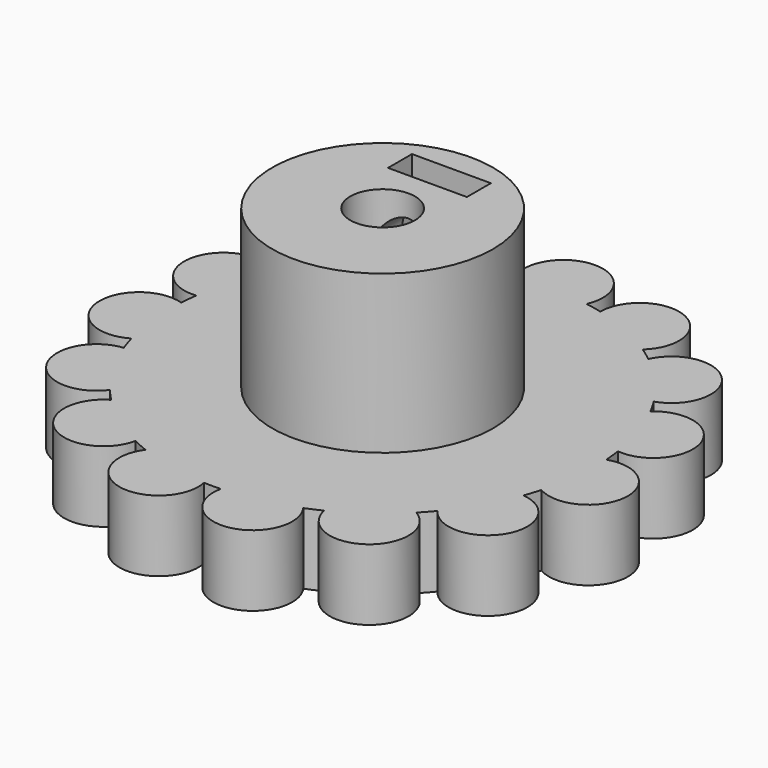
from build123d import *

# Parameters (mm, degrees)
F1_DEPTH      = 4.5
F2_R          = 7
F3_DEPTH      = 10
F4_R          = 2.05
F5_DEPTH      = 25
F6_W          = 5
F6_H          = 1.9
F7_DEPTH      = 6
F8_R          = 1.6
F9_DEPTH      = 2.2693995383
F9_DEPTH_BACK = 25


with BuildPart() as f1:
    # F0 (on Top) → F1 (new body)
    with BuildSketch(Plane.XY):
        with BuildLine():
            ThreePointArc((3.3244697782, 13.0842615647), (2.806807826, 13.2049926099), (2.284794361, 13.3052513966))
            ThreePointArc((2.284794361, 13.3052513966), (0, 16.82), (-2.284794361, 13.3052513966))
            ThreePointArc((-2.284794361, 13.3052513966), (-2.806807826, 13.2049926099), (-3.3244697782, 13.0842615647))
            ThreePointArc((-3.3244697782, 13.0842615647), (-6.8413103365, 15.3658345975), (-7.4989967985, 11.2256423877))
            ThreePointArc((-7.4989967985, 11.2256423877), (-7.9351009059, 10.9217294241), (-8.3589028909, 10.6008840414))
            ThreePointArc((-8.3589028909, 10.6008840414), (-12.4996959645, 11.254776799), (-11.4165545633, 7.2050178281))
            ThreePointArc((-11.4165545633, 7.2050178281), (-11.6913429511, 6.75), (-11.9480057555, 6.2845173614))
            ThreePointArc((-11.9480057555, 6.2845173614), (-15.9967706041, 5.1976658454), (-13.3600863279, 1.9385802306))
            ThreePointArc((-13.3600863279, 1.9385802306), (-13.4260455875, 1.4111342541), (-13.4711898808, 0.8815005365))
            ThreePointArc((-13.4711898808, 0.8815005365), (-16.7278582801, -1.7581687522), (-12.9935377939, -3.6630555003))
            ThreePointArc((-12.9935377939, -3.6630555003), (-12.83926297, -4.1717294241), (-12.6650828937, -4.6739357393))
            ThreePointArc((-12.6650828937, -4.6739357393), (-14.5665472917, -8.41), (-10.3802885327, -8.6313156574))
            ThreePointArc((-10.3802885327, -8.6313156574), (-10.0324551439, -9.0332631858), (-9.6690680157, -9.4212060644))
            ThreePointArc((-9.6690680157, -9.4212060644), (-9.8865479436, -13.6076658454), (-5.9721930823, -12.1071429242))
            ThreePointArc((-5.9721930823, -12.1071429242), (-5.4909446815, -12.3328636782), (-5.001183437, -12.539464272))
            ThreePointArc((-5.001183437, -12.539464272), (-3.4970746396, -16.4524426443), (-0.5314511923, -13.4895351896))
            ThreePointArc((-0.5314511923, -13.4895351896), (0, -13.5), (0.5314511923, -13.4895351896))
            ThreePointArc((0.5314511923, -13.4895351896), (3.4970746396, -16.4524426443), (5.001183437, -12.539464272))
            ThreePointArc((5.001183437, -12.539464272), (5.4909446815, -12.3328636782), (5.9721930823, -12.1071429242))
            ThreePointArc((5.9721930823, -12.1071429242), (9.8865479436, -13.6076658454), (9.6690680157, -9.4212060644))
            ThreePointArc((9.6690680157, -9.4212060644), (10.0324551439, -9.0332631858), (10.3802885327, -8.6313156574))
            ThreePointArc((10.3802885327, -8.6313156574), (14.5665472917, -8.41), (12.6650828937, -4.6739357393))
            ThreePointArc((12.6650828937, -4.6739357393), (12.83926297, -4.1717294241), (12.9935377939, -3.6630555003))
            ThreePointArc((12.9935377939, -3.6630555003), (16.7278582801, -1.7581687522), (13.4711898808, 0.8815005365))
            ThreePointArc((13.4711898808, 0.8815005365), (13.4260455875, 1.4111342541), (13.3600863279, 1.9385802306))
            ThreePointArc((13.3600863279, 1.9385802306), (15.9967706041, 5.1976658454), (11.9480057555, 6.2845173614))
            ThreePointArc((11.9480057555, 6.2845173614), (11.6913429511, 6.75), (11.4165545633, 7.2050178281))
            ThreePointArc((11.4165545633, 7.2050178281), (12.4996959645, 11.254776799), (8.3589028909, 10.6008840414))
            ThreePointArc((8.3589028909, 10.6008840414), (7.9351009059, 10.9217294241), (7.4989967985, 11.2256423877))
            ThreePointArc((7.4989967985, 11.2256423877), (6.8413103365, 15.3658345975), (3.3244697782, 13.0842615647))
        make_face()
    extrude(amount=F1_DEPTH)

    # F2 (on face) → F3 (join)
    with BuildSketch(Plane.XY.offset(4.5)):
        Circle(F2_R)
    extrude(amount=F3_DEPTH)

    # F4 (on face) → F5 (cut)
    with BuildSketch(Plane.XY.offset(14.5)):
        Circle(F4_R)
    extrude(amount=-F5_DEPTH, mode=Mode.SUBTRACT)

    # F6 (on face) → F7 (cut)
    with BuildSketch(Plane.XY.offset(14.5)):
        with Locations((0, 4.5)):
            Rectangle(F6_W, F6_H)
    extrude(amount=-F7_DEPTH, mode=Mode.SUBTRACT)

    # F8 (on face) → F9 (cut, two sides)
    with BuildSketch(Plane(origin=(0, 3.55, 0), x_dir=(-1, 0, 0), z_dir=(0, 1, 0))) as f9_sk:
        with Locations((0, 11.5)):
            Circle(F8_R)
    extrude(amount=-F9_DEPTH, mode=Mode.SUBTRACT)
    extrude(f9_sk.sketch, amount=F9_DEPTH_BACK, mode=Mode.SUBTRACT)


solid = f1.part
